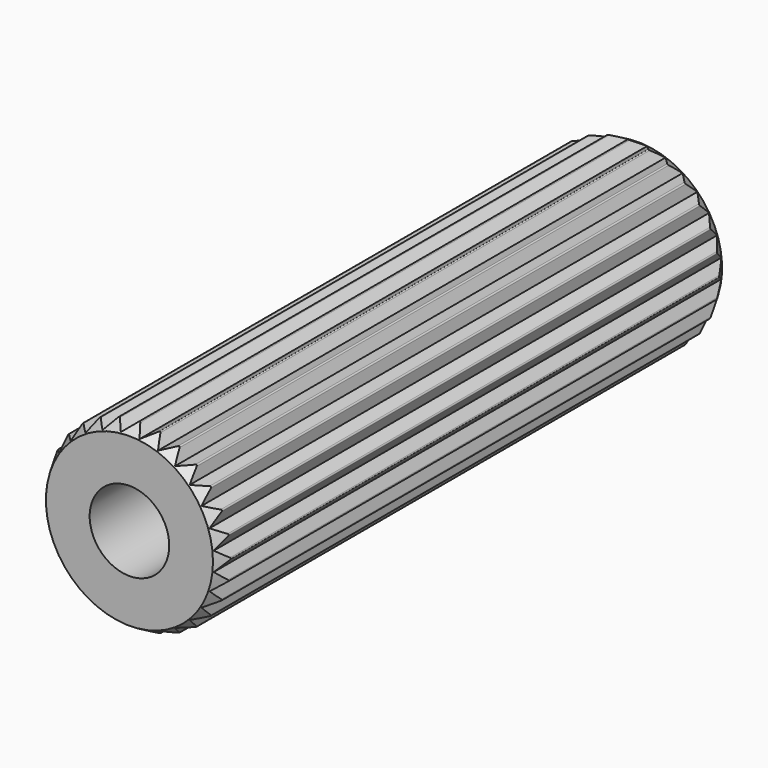
from build123d import *

# Parameters (mm, degrees)
F1_DEPTH = 80
F3_R     = 8.9651607992
F3_R_2   = 5
F4_DEPTH = 25
F5_R     = 13
F5_R_2   = 10.5
F6_DEPTH = 3
F6_TAPER = 30
F7_R     = 13
F7_R_2   = 10.5
F8_DEPTH = 3
F8_TAPER = 30


with BuildPart() as f1:
    # F0 (on Front) → F1 (new body)
    with BuildSketch(Plane.XZ):
        with BuildLine():
            ThreePointArc((0.1157017697, 11.4029146877), (0, 11.4450266879), (-0.1157017697, 11.4029146877))
            Line((-0.1157017697, 11.4029146877), (-1.1838162917, 10.5066601862))
            Line((-1.1838162917, 10.5066601862), (-2.4245863413, 11.1427658751))
            ThreePointArc((-2.4245863413, 11.1427658751), (-2.5467580278, 11.1580759737), (-2.6501881109, 11.0912737434))
            Line((-2.6501881109, 11.0912737434), (-3.4920873831, 9.9798123725))
            Line((-3.4920873831, 9.9798123725), (-4.843295569, 10.3238722534))
            ThreePointArc((-4.843295569, 10.3238722534), (-4.9658109737, 10.3116127381), (-5.051782954, 10.2234700205))
            Line((-5.051782954, 10.2234700205), (-5.6252506314, 8.9525350944))
            Line((-5.6252506314, 8.9525350944), (-7.0191417331, 8.9872965682))
            ThreePointArc((-7.0191417331, 8.9872965682), (-7.1358574219, 8.9480821823), (-7.2000603054, 8.8430188212))
            Line((-7.2000603054, 8.8430188212), (-7.476340324, 7.476340324))
            Line((-7.476340324, 7.476340324), (-8.8430188212, 7.2000603054))
            ThreePointArc((-8.8430188212, 7.2000603054), (-8.9480821823, 7.1358574219), (-8.9872965682, 7.0191417331))
            Line((-8.9872965682, 7.0191417331), (-8.9525350944, 5.6252506314))
            Line((-8.9525350944, 5.6252506314), (-10.2234700205, 5.051782954))
            ThreePointArc((-10.2234700205, 5.051782954), (-10.3116127381, 4.9658109737), (-10.3238722534, 4.843295569))
            Line((-10.3238722534, 4.843295569), (-9.9798123725, 3.4920873831))
            Line((-9.9798123725, 3.4920873831), (-11.0912737434, 2.6501881109))
            ThreePointArc((-11.0912737434, 2.6501881109), (-11.1580759737, 2.5467580278), (-11.1427658751, 2.4245863413))
            Line((-11.1427658751, 2.4245863413), (-10.5066601862, 1.1838162917))
            Line((-10.5066601862, 1.1838162917), (-11.4029146877, 0.1157017697))
            ThreePointArc((-11.4029146877, 0.1157017697), (-11.4450266879, 0), (-11.4029146877, -0.1157017697))
            Line((-11.4029146877, -0.1157017697), (-10.5066601862, -1.1838162917))
            Line((-10.5066601862, -1.1838162917), (-11.1427658751, -2.4245863413))
            ThreePointArc((-11.1427658751, -2.4245863413), (-11.1580759737, -2.5467580278), (-11.0912737434, -2.6501881109))
            Line((-11.0912737434, -2.6501881109), (-9.9798123725, -3.4920873831))
            Line((-9.9798123725, -3.4920873831), (-10.3238722534, -4.843295569))
            ThreePointArc((-10.3238722534, -4.843295569), (-10.3116127381, -4.9658109737), (-10.2234700205, -5.051782954))
            Line((-10.2234700205, -5.051782954), (-8.9525350944, -5.6252506314))
            Line((-8.9525350944, -5.6252506314), (-8.9872965682, -7.0191417331))
            ThreePointArc((-8.9872965682, -7.0191417331), (-8.9480821823, -7.1358574219), (-8.8430188212, -7.2000603054))
            Line((-8.8430188212, -7.2000603054), (-7.476340324, -7.476340324))
            Line((-7.476340324, -7.476340324), (-7.2000603054, -8.8430188212))
            ThreePointArc((-7.2000603054, -8.8430188212), (-7.1358574219, -8.9480821823), (-7.0191417331, -8.9872965682))
            Line((-7.0191417331, -8.9872965682), (-5.6252506314, -8.9525350944))
            Line((-5.6252506314, -8.9525350944), (-5.051782954, -10.2234700205))
            ThreePointArc((-5.051782954, -10.2234700205), (-4.9658109737, -10.3116127381), (-4.843295569, -10.3238722534))
            Line((-4.843295569, -10.3238722534), (-3.4920873831, -9.9798123725))
            Line((-3.4920873831, -9.9798123725), (-2.6501881109, -11.0912737434))
            ThreePointArc((-2.6501881109, -11.0912737434), (-2.5467580278, -11.1580759737), (-2.4245863413, -11.1427658751))
            Line((-2.4245863413, -11.1427658751), (-1.1838162917, -10.5066601862))
            Line((-1.1838162917, -10.5066601862), (-0.1157017697, -11.4029146877))
            ThreePointArc((-0.1157017697, -11.4029146877), (0, -11.4450266879), (0.1157017697, -11.4029146877))
            Line((0.1157017697, -11.4029146877), (1.1838162917, -10.5066601862))
            Line((1.1838162917, -10.5066601862), (2.4245863413, -11.1427658751))
            ThreePointArc((2.4245863413, -11.1427658751), (2.5467580278, -11.1580759737), (2.6501881109, -11.0912737434))
            Line((2.6501881109, -11.0912737434), (3.4920873831, -9.9798123725))
            Line((3.4920873831, -9.9798123725), (4.843295569, -10.3238722534))
            ThreePointArc((4.843295569, -10.3238722534), (4.9658109737, -10.3116127381), (5.051782954, -10.2234700205))
            Line((5.051782954, -10.2234700205), (5.6252506314, -8.9525350944))
            Line((5.6252506314, -8.9525350944), (7.0191417331, -8.9872965682))
            ThreePointArc((7.0191417331, -8.9872965682), (7.1358574219, -8.9480821823), (7.2000603054, -8.8430188212))
            Line((7.2000603054, -8.8430188212), (7.476340324, -7.476340324))
            Line((7.476340324, -7.476340324), (8.8430188212, -7.2000603054))
            ThreePointArc((8.8430188212, -7.2000603054), (8.9480821823, -7.1358574219), (8.9872965682, -7.0191417331))
            Line((8.9872965682, -7.0191417331), (8.9525350944, -5.6252506314))
            Line((8.9525350944, -5.6252506314), (10.2234700205, -5.051782954))
            ThreePointArc((10.2234700205, -5.051782954), (10.3116127381, -4.9658109737), (10.3238722534, -4.843295569))
            Line((10.3238722534, -4.843295569), (9.9798123725, -3.4920873831))
            Line((9.9798123725, -3.4920873831), (11.0912737434, -2.6501881109))
            ThreePointArc((11.0912737434, -2.6501881109), (11.1580759737, -2.5467580278), (11.1427658751, -2.4245863413))
            Line((11.1427658751, -2.4245863413), (10.5066601862, -1.1838162917))
            Line((10.5066601862, -1.1838162917), (11.4029146877, -0.1157017697))
            ThreePointArc((11.4029146877, -0.1157017697), (11.4450266879, 0), (11.4029146877, 0.1157017697))
            Line((11.4029146877, 0.1157017697), (10.5066601862, 1.1838162917))
            Line((10.5066601862, 1.1838162917), (11.1427658751, 2.4245863413))
            ThreePointArc((11.1427658751, 2.4245863413), (11.1580759737, 2.5467580278), (11.0912737434, 2.6501881109))
            Line((11.0912737434, 2.6501881109), (9.9798123725, 3.4920873831))
            Line((9.9798123725, 3.4920873831), (10.3238722534, 4.843295569))
            ThreePointArc((10.3238722534, 4.843295569), (10.3116127381, 4.9658109737), (10.2234700205, 5.051782954))
            Line((10.2234700205, 5.051782954), (8.9525350944, 5.6252506314))
            Line((8.9525350944, 5.6252506314), (8.9872965682, 7.0191417331))
            ThreePointArc((8.9872965682, 7.0191417331), (8.9480821823, 7.1358574219), (8.8430188212, 7.2000603054))
            Line((8.8430188212, 7.2000603054), (7.476340324, 7.476340324))
            Line((7.476340324, 7.476340324), (7.2000603054, 8.8430188212))
            ThreePointArc((7.2000603054, 8.8430188212), (7.1358574219, 8.9480821823), (7.0191417331, 8.9872965682))
            Line((7.0191417331, 8.9872965682), (5.6252506314, 8.9525350944))
            Line((5.6252506314, 8.9525350944), (5.051782954, 10.2234700205))
            ThreePointArc((5.051782954, 10.2234700205), (4.9658109737, 10.3116127381), (4.843295569, 10.3238722534))
            Line((4.843295569, 10.3238722534), (3.4920873831, 9.9798123725))
            Line((3.4920873831, 9.9798123725), (2.6501881109, 11.0912737434))
            ThreePointArc((2.6501881109, 11.0912737434), (2.5467580278, 11.1580759737), (2.4245863413, 11.1427658751))
            Line((2.4245863413, 11.1427658751), (1.1838162917, 10.5066601862))
            Line((1.1838162917, 10.5066601862), (0.1157017697, 11.4029146877))
        make_face()
        with BuildLine():
            ThreePointArc((0, 8), (5.6568542495, 5.6568542495), (8, 0))
            ThreePointArc((8, 0), (-5.6568542495, -5.6568542495), (0, 8))
        make_face(mode=Mode.SUBTRACT)
    extrude(amount=F1_DEPTH)

    # F3 (on face) → F4 (join)
    with BuildSketch(Plane.XZ.offset(80)):
        Circle(F3_R)
        Circle(F3_R_2, mode=Mode.SUBTRACT)
    extrude(amount=-F4_DEPTH)

    # F5 (on face) → F6 (cut)
    with BuildSketch(Plane(origin=(0, 0, 0), x_dir=(-1, 0, 0), z_dir=(0, 1, 0))):
        Circle(F5_R)
        Circle(F5_R_2, mode=Mode.SUBTRACT)
    extrude(amount=-F6_DEPTH, taper=F6_TAPER, mode=Mode.SUBTRACT)

    # F7 (on face) → F8 (cut)
    with BuildSketch(Plane.XZ.offset(80)):
        Circle(F7_R)
        Circle(F7_R_2, mode=Mode.SUBTRACT)
    extrude(amount=-F8_DEPTH, taper=F8_TAPER, mode=Mode.SUBTRACT)


solid = f1.part
